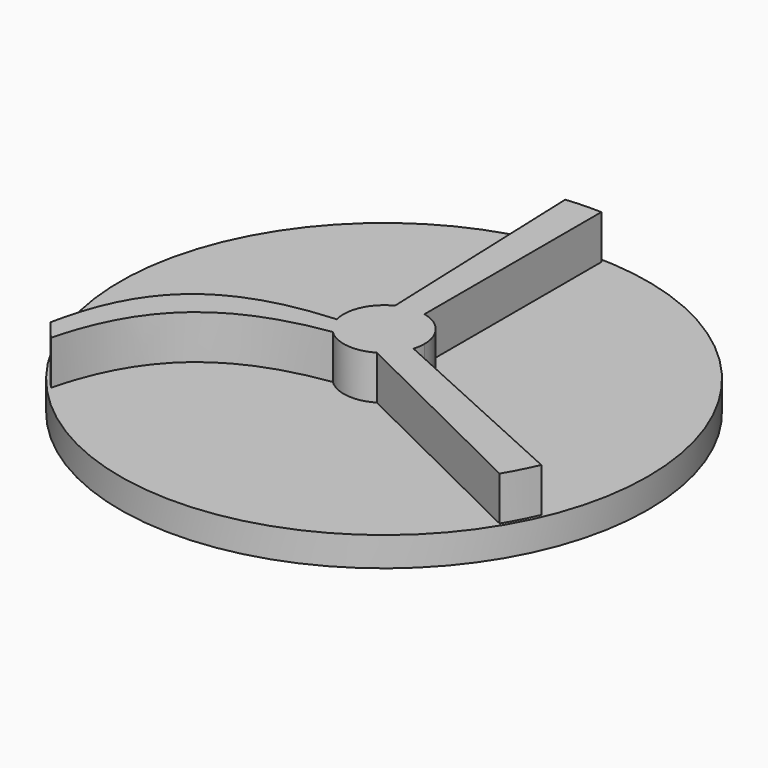
from build123d import *

# Parameters (mm, degrees)
F1_DEPTH = 7.62
F2_R     = 45.72373
F3_DEPTH = 5.08


with BuildPart() as f1:
    # F0 (on Top) → F1 (new body)
    with BuildSketch(Plane.XY):
        with BuildLine():
            ThreePointArc((-3.120344, 6.258425), (-0.834145, 6.943244), (1.549203, 6.819414))
            Line((1.549203, 6.819414), (1.549203, 45.108627))
            ThreePointArc((1.549203, 45.108627), (-1.503064, 45.110188), (-4.548458, 44.905454))
            Line((-4.548458, 44.905454), (-3.120344, 6.258425))
        make_face()
        with BuildLine():
            ThreePointArc((-4.890711, -4.998538), (-6.047151, -3.512321), (-6.765095, -1.771418))
            add(Edge.make_bspline(
                [(-6.765095, -1.771418), (-25.271352, -2.981601), (-33.291422, -10.951445), (-36.469723, -26.592246)],
                knots=[0, 0, 0, 0, 38.709668, 38.709668, 38.709668, 38.709668], degree=3))
            ThreePointArc((-36.469723, -26.592246), (-35.071161, -28.411299), (-33.58196, -30.156927))
            add(Edge.make_bspline(
                [(-4.890711, -4.998538), (-20.500017, -7.315121), (-29.63965, -14.453498), (-33.58196, -30.156927)],
                knots=[0, 0, 0, 0, 38.159301, 38.159301, 38.159301, 38.159301], degree=3))
        make_face()
        with BuildLine():
            Line((41.473617, -17.80807), (6.700846, -2.000774))
            ThreePointArc((6.700846, -2.000774), (5.510265, -4.305974), (3.561225, -6.018481))
            Line((3.561225, -6.018481), (38.651442, -23.307816))
            ThreePointArc((38.651442, -23.307816), (40.156793, -20.606314), (41.473617, -17.80807))
        make_face()
        with BuildLine():
            ThreePointArc((6.700846, -2.000774), (6.919704, -1.011008), (6.993171, 0))
            ThreePointArc((6.993171, 0), (5.465267, 4.362946), (1.549203, 6.819414))
            ThreePointArc((1.549203, 6.819414), (-0.834145, 6.943244), (-3.120344, 6.258425))
            ThreePointArc((-3.120344, 6.258425), (-6.367894, 2.890391), (-6.765095, -1.771418))
            ThreePointArc((-6.765095, -1.771418), (-6.047151, -3.512321), (-4.890711, -4.998538))
            ThreePointArc((-4.890711, -4.998538), (-0.837827, -6.942801), (3.561225, -6.018481))
            ThreePointArc((3.561225, -6.018481), (5.510265, -4.305974), (6.700846, -2.000774))
        make_face()
    extrude(amount=F1_DEPTH)

    # F2 (on Top) → F3 (join)
    with BuildSketch(Plane.XY):
        Circle(F2_R)
    extrude(amount=-F3_DEPTH)


solid = f1.part
